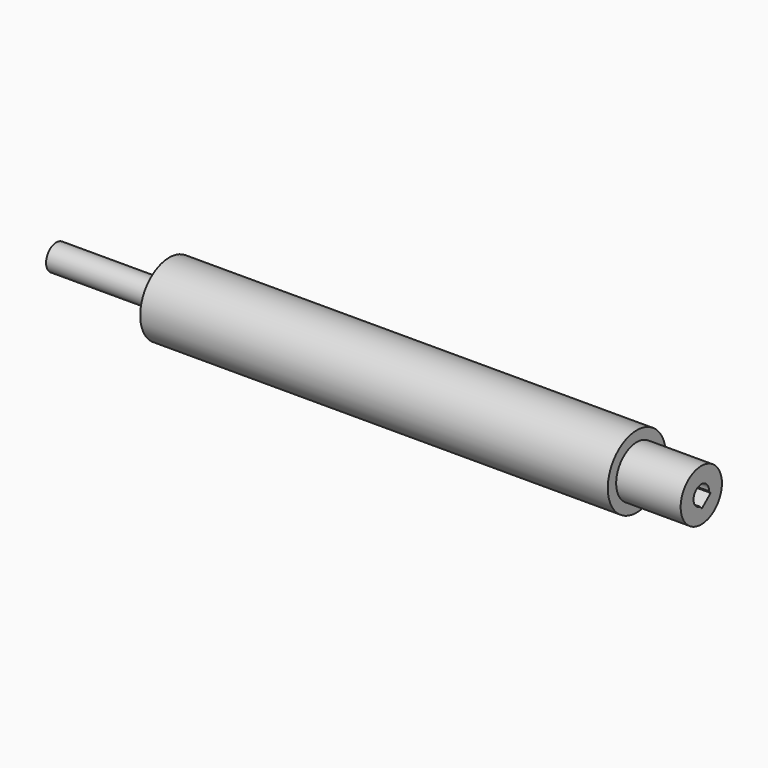
from build123d import *

# Parameters (mm, degrees)
SKETCH_R          = 4
PAD_DEPTH         = 110
SKETCH001_R       = 11.25
PAD001_DEPTH      = 70
PAD001_DEPTH_BACK = 75
SKETCH003_R       = 8
PAD002_DEPTH      = 90
POCKET_DEPTH      = 18


with BuildPart() as part:
    # Sketch → Pad (new body)
    with BuildSketch(Plane.YZ):
        Circle(SKETCH_R)
    extrude(amount=-PAD_DEPTH)

    # Sketch001 → Pad001 (join, two sides)
    with BuildSketch(Plane.YZ) as pad001_sk:
        Circle(SKETCH001_R)
    extrude(amount=PAD001_DEPTH)
    extrude(pad001_sk.sketch, amount=-PAD001_DEPTH_BACK)

    # Sketch003 → Pad002 (join)
    with BuildSketch(Plane.YZ):
        Circle(SKETCH003_R)
    extrude(amount=PAD002_DEPTH)

    # Sketch002 → Pocket (cut)
    with BuildSketch(Plane.YZ.offset(90)):
        with BuildLine():
            ThreePointArc((2.99806, -0.107877), (-1.918287, 2.306551), (-0.44036, -2.967505))
            Line((-0.44036, -2.967505), (0.198883, -3.73651))
            Line((0.198883, -3.73651), (3.637995, -0.877715))
            Line((2.99806, -0.107877), (3.637995, -0.877715))
        make_face()
    extrude(amount=-POCKET_DEPTH, mode=Mode.SUBTRACT)


solid = part.part
